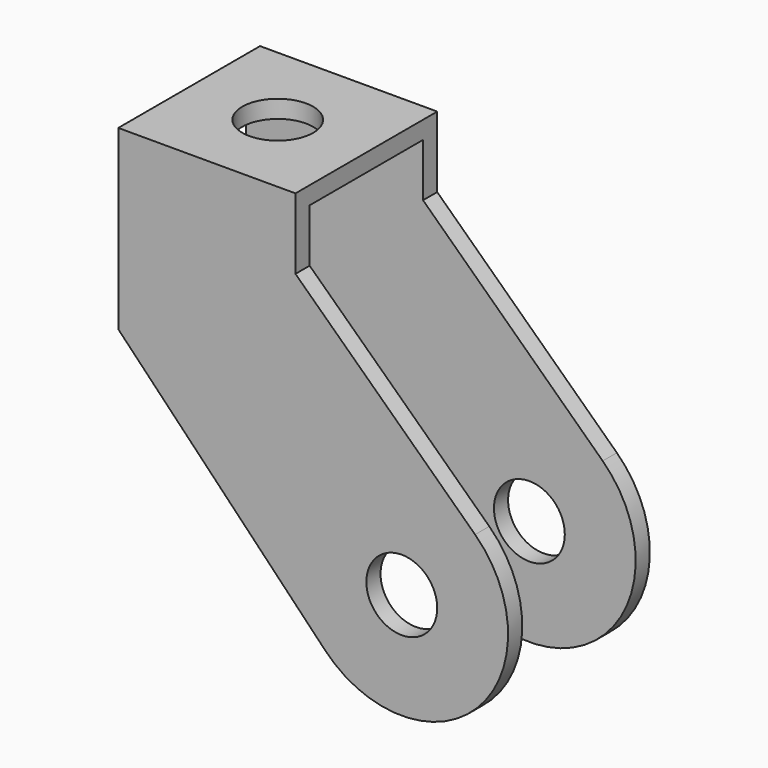
from build123d import *

# Parameters (mm, degrees)
F0_R     = 20
F1_DEPTH = 10
F2_W     = 100
F2_H     = 10
F3_DEPTH = 80
F4_R     = 20
F4_W     = 100
F4_H     = 10
F5_DEPTH = 10
F6_R     = 20
F7_DEPTH = 25


with BuildPart() as f1:
    # F0 (on Front) → F1 (new body)
    with BuildSketch(Plane.XZ):
        with BuildLine():
            Line((-10, 120), (-110, 120))
            Line((-110, 120), (-110, 20))
            Line((-110, 20), (6.721551, -101.556899))
            ThreePointArc((6.721551, -101.556899), (92.513193, -102.339443), (91.37931, -16.551724))
            Line((91.37931, -16.551724), (-10, 80))
            Line((-10, 80), (-10, 120))
        make_face()
        with Locations((50, -60)):
            Circle(F0_R, mode=Mode.SUBTRACT)
    extrude(amount=F1_DEPTH)

    # F2 (on face) → F3 (join)
    with BuildSketch(Plane.XZ.offset(10)):
        with Locations((-60, 115)):
            Rectangle(F2_W, F2_H)
    extrude(amount=F3_DEPTH)

    # F4 (on face) → F5 (join)
    with BuildSketch(Plane.XZ.offset(90)):
        with BuildLine():
            Line((-10, 110), (-110, 110))
            Line((-110, 110), (-110, 20))
            Line((-110, 20), (6.721551, -101.556899))
            ThreePointArc((6.721551, -101.556899), (92.513193, -102.339443), (91.37931, -16.551724))
            Line((91.37931, -16.551724), (-10, 80))
            Line((-10, 80), (-10, 110))
        make_face()
        with Locations((50, -60)):
            Circle(F4_R, mode=Mode.SUBTRACT)
        with Locations((-60, 115)):
            Rectangle(F4_W, F4_H)
    extrude(amount=F5_DEPTH)

    # F6 (on face) → F7 (cut)
    with BuildSketch(Plane.XY.offset(120)):
        with Locations((-60, -50)):
            Circle(F6_R)
    extrude(amount=-F7_DEPTH, mode=Mode.SUBTRACT)


solid = f1.part
